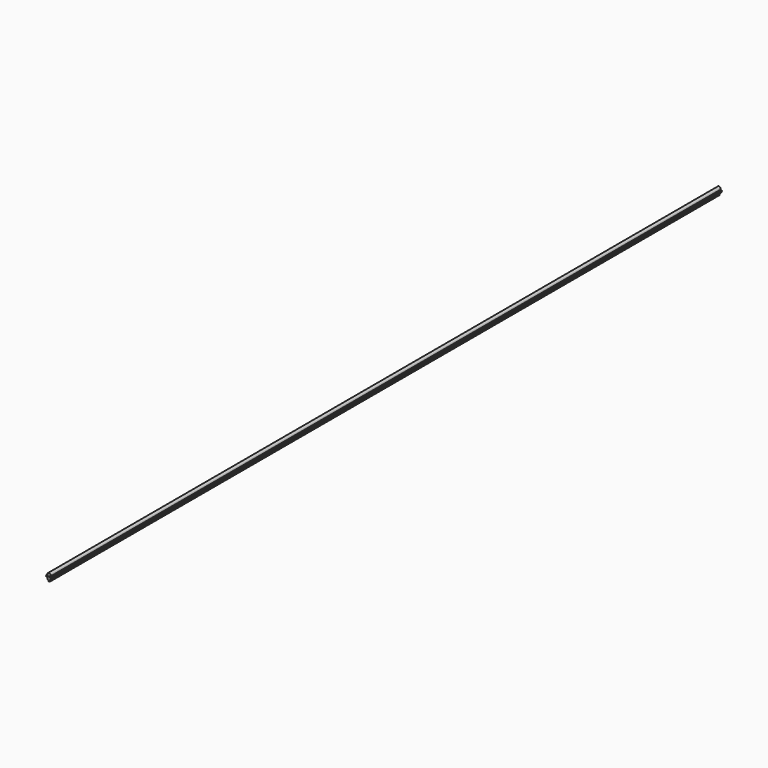
from build123d import *

# Parameters (mm, degrees)
F0_R     = 0.4064
F0_R_2   = 0.08001
F1_DEPTH = 205


with BuildPart() as f1:
    # F0 (on Front) → F1 (new body)
    with BuildSketch(Plane.XZ):
        with Locations((0, 0.8382)):
            Circle(F0_R)
        Circle(F0_R)
        with Locations((-0.46609, 0.4191)):
            Circle(F0_R_2)
        with Locations((-0.65151, 0.51181)):
            Circle(F0_R_2)
        with Locations((-0.65151, 0.318008)):
            Circle(F0_R_2)
        with Locations((0.46609, 0.4191)):
            Circle(F0_R_2)
        with Locations((0.65151, 0.51181)):
            Circle(F0_R_2)
        with Locations((0.65151, 0.318008)):
            Circle(F0_R_2)
        with Locations((0.09271, -0.5588)):
            Circle(F0_R_2)
        with Locations((-0.09271, -0.5588)):
            Circle(F0_R_2)
    extrude(amount=F1_DEPTH)


solid = f1.part
